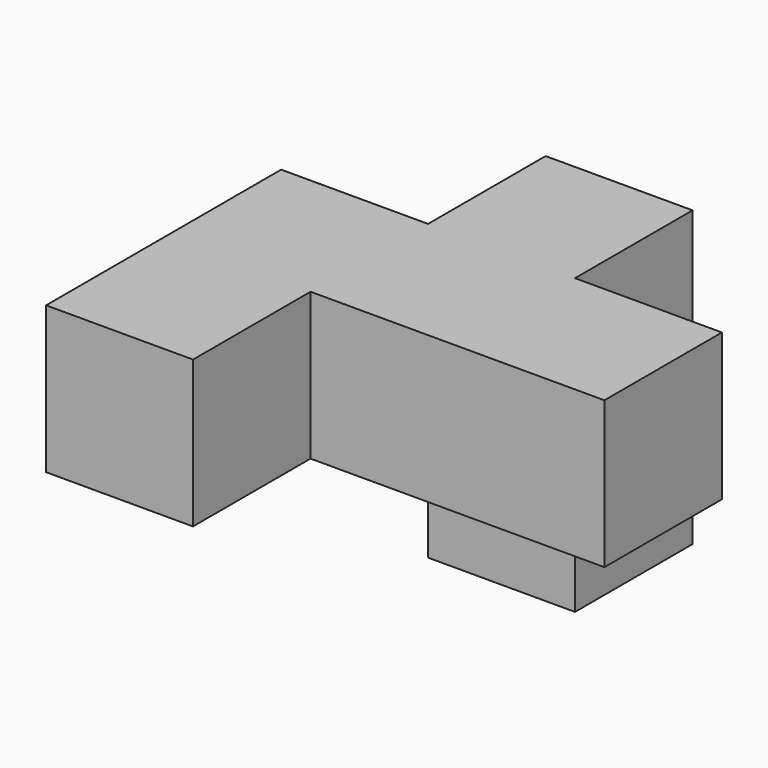
from build123d import *

# Parameters (mm, degrees)
F0_W     = 25.4
F0_H     = 25.4
F1_DEPTH = 50.8
F2_W     = 25.4
F2_H     = 25.4
F3_DEPTH = 50.8
F4_W     = 25.4
F4_H     = 25.4
F5_DEPTH = 50.8
F6_W     = 25.4
F6_H     = 25.4
F7_DEPTH = 25.4


with BuildPart() as f1:
    # F0 (on Front) → F1 (new body)
    with BuildSketch(Plane.XZ):
        with Locations((-59.656989, -11.454627)):
            Rectangle(F0_W, F0_H)
    extrude(amount=F1_DEPTH)

    # F2 (on face) → F3 (join)
    with BuildSketch(Plane.YZ.offset(-46.956989)):
        with Locations((-12.7, -11.454627)):
            Rectangle(F2_W, F2_H)
    extrude(amount=F3_DEPTH)

    # F4 (on face) → F5 (join)
    with BuildSketch(Plane.XZ.offset(25.4)):
        with Locations((-34.256989, -11.454627)):
            Rectangle(F4_W, F4_H)
    extrude(amount=-F5_DEPTH)

    # F6 (on face) → F7 (join)
    with BuildSketch(Plane(origin=(0, 0, -24.154627), x_dir=(1, 0, 0), z_dir=(0, 0, -1))):
        with Locations((-34.256989, -12.7)):
            Rectangle(F6_W, F6_H)
    extrude(amount=F7_DEPTH)


solid = f1.part
